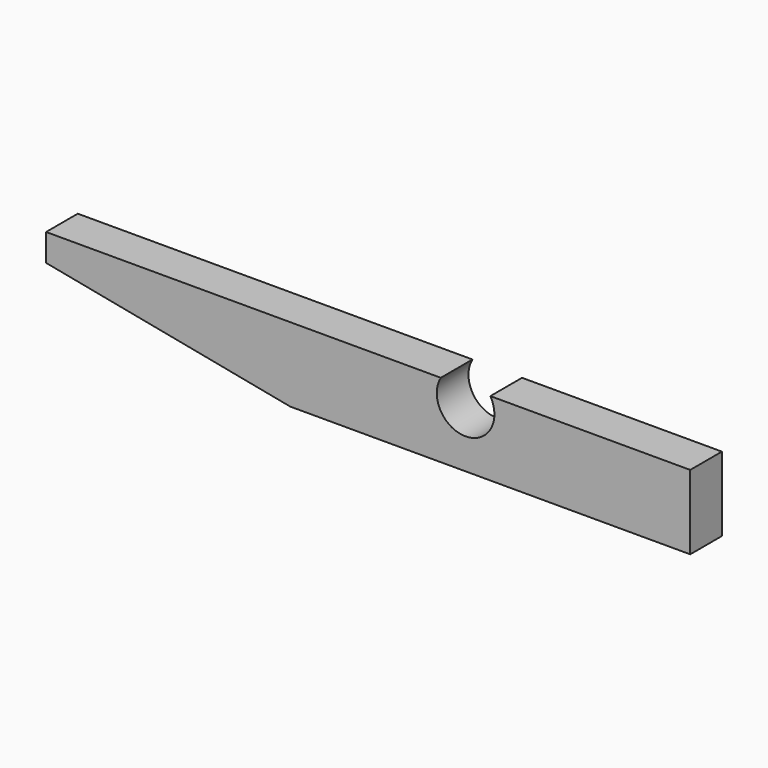
from build123d import *

# Parameters (mm, degrees)
F1_DEPTH = 5.08


with BuildPart() as f1:
    # F0 (on Front) → F1 (new body)
    with BuildSketch(Plane.XZ):
        with BuildLine():
            Line((-42.163216, -15.461862), (9.093571, -15.461862))
            Line((9.093571, -15.461862), (9.093571, -5.936862))
            Line((9.093571, -5.936862), (-16.52032, -5.936862))
            ThreePointArc((-16.52032, -5.936862), (-19.69532, -11.517233), (-22.87032, -5.936862))
            Line((-22.87032, -5.936862), (-73.456429, -5.936862))
            Line((-73.456429, -5.936862), (-73.456429, -9.427406))
            Line((-73.456429, -9.427406), (-42.163216, -15.461862))
        make_face()
    extrude(amount=F1_DEPTH)


solid = f1.part
